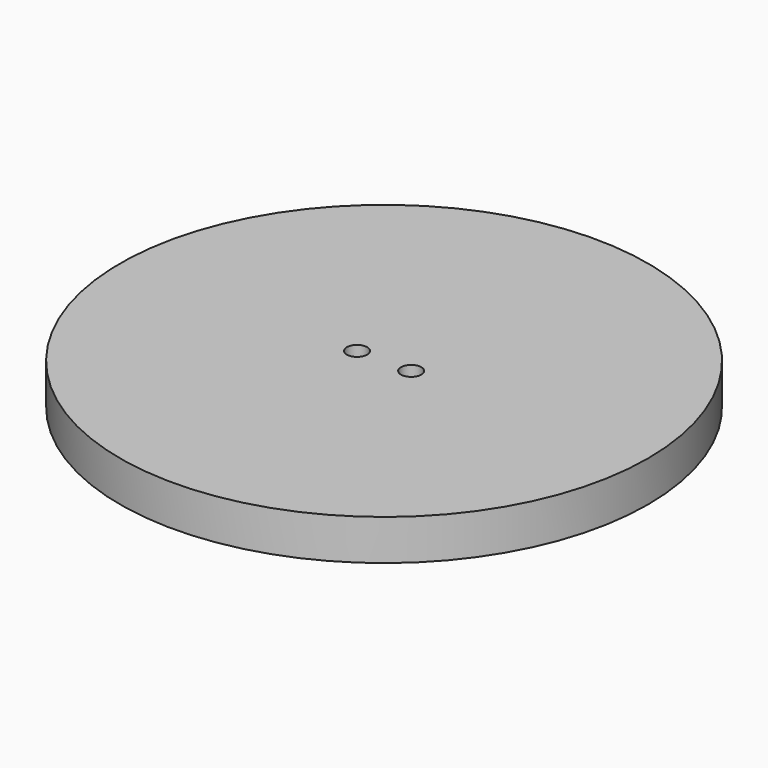
from build123d import *

# Parameters (mm, degrees)
F0_R     = 19.5
F1_DEPTH = 3
F2_R     = 0.75
F3_DEPTH = 25


with BuildPart() as f1:
    # F0 (on Top) → F1 (new body)
    with BuildSketch(Plane.XY):
        Circle(F0_R)
    extrude(amount=F1_DEPTH)

    # F2 (on face) → F3 (cut)
    with BuildSketch(Plane.XY.offset(3)):
        with Locations((2, 0)):
            Circle(F2_R)
        with Locations((-2, 0)):
            Circle(F2_R)
    extrude(amount=-F3_DEPTH, mode=Mode.SUBTRACT)


solid = f1.part
